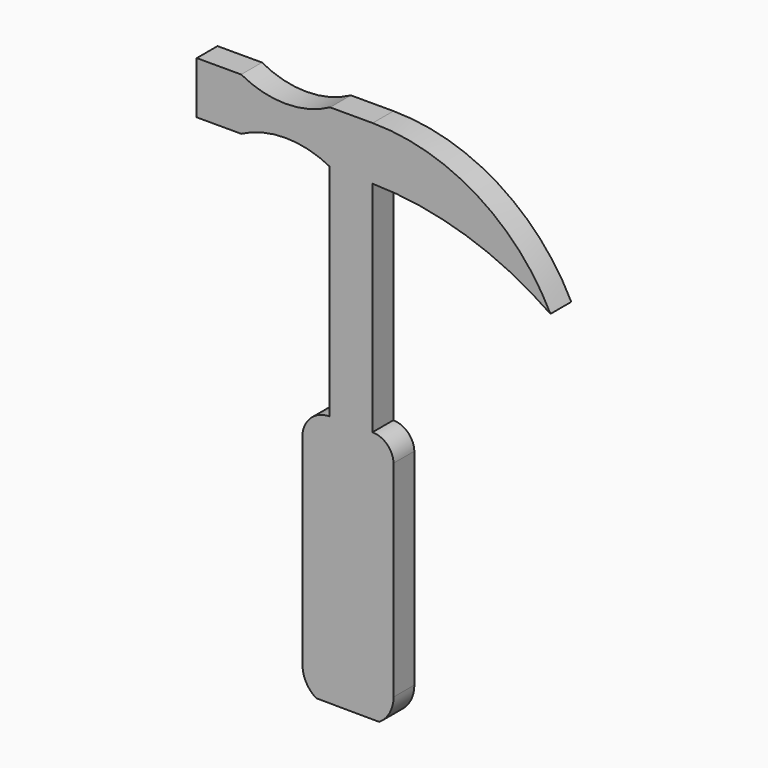
from build123d import *

# Parameters (mm, degrees)
F0_W     = 10.859374
F0_H     = 12.747962
F1_DEPTH = 6.35


with BuildPart() as f1:
    # F0 (on Front) → F1 (new body)
    with BuildSketch(Plane.XZ):
        with Locations((-49.811488, 46.506466)):
            Rectangle(F0_W, F0_H)
        with BuildLine():
            ThreePointArc((-22.663044, 52.880447), (-33.522422, 50.119041), (-44.381801, 52.880447))
            Line((-44.381801, 52.880447), (-44.381801, 40.132485))
            ThreePointArc((-44.381801, 40.132485), (-33.58522, 42.779586), (-22.788638, 40.132485))
            Line((-22.788638, 40.132485), (-22.663044, 52.880447))
        make_face()
        Polygon((-12.275815, 52.880447), (-22.663044, 52.880447), (-22.788638, 40.132485), (-12.31831, 39.847307), align=None)
        Polygon((-12.31831, 39.847307), (-22.788638, 40.132485), (-22.788638, -13.626155), (-12.31831, -13.626155), align=None)
        with BuildLine():
            ThreePointArc((31.161692, 25.968079), (13.273611, 45.607102), (-12.275815, 52.880447))
            Line((-12.275815, 52.880447), (-12.31831, 39.847307))
            ThreePointArc((-12.31831, 39.847307), (10.459966, 36.160339), (31.161692, 25.968079))
        make_face()
        with BuildLine():
            Line((-12.31831, -13.626155), (-22.788638, -13.626155))
            ThreePointArc((-22.788638, -13.626155), (-27.217846, -15.308543), (-29.413201, -19.5072))
            Line((-29.413201, -19.5072), (-29.413201, -69.189601))
            ThreePointArc((-29.413201, -69.189601), (-28.519701, -72.668194), (-26.060402, -75.285599))
            Line((-26.060402, -75.285599), (-10.666025, -75.377978))
            ThreePointArc((-10.666025, -75.377978), (-8.094471, -72.573766), (-7.162803, -68.884797))
            Line((-7.162803, -68.884797), (-7.162803, -18.592801))
            ThreePointArc((-7.162803, -18.592801), (-8.738966, -15.069801), (-12.31831, -13.626155))
        make_face()
    extrude(amount=F1_DEPTH)


solid = f1.part
